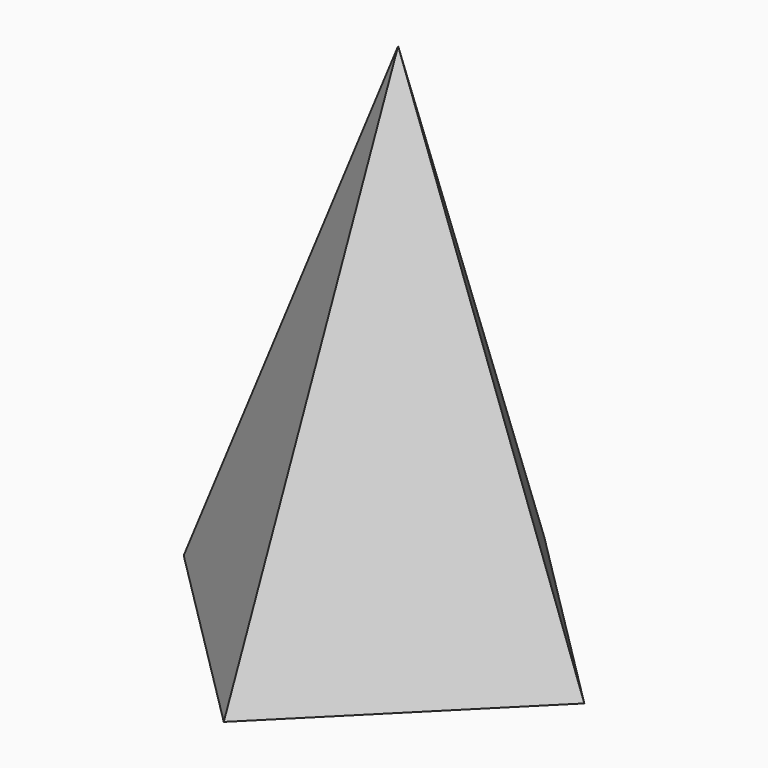
from build123d import *


with BuildPart() as f3:
    # F0 (on Top) → F3 section 0
    with BuildSketch(Plane.XY, mode=Mode.PRIVATE) as f3_s0:
        Polygon((64.12459, 0.728686), (0, 64.853281), (-64.124595, 0.728691), (-5e-06, -63.395904), align=None)
    loft([Vertex(5.103393, 0, 166.37), f3_s0.sketch])


solid = f3.part
